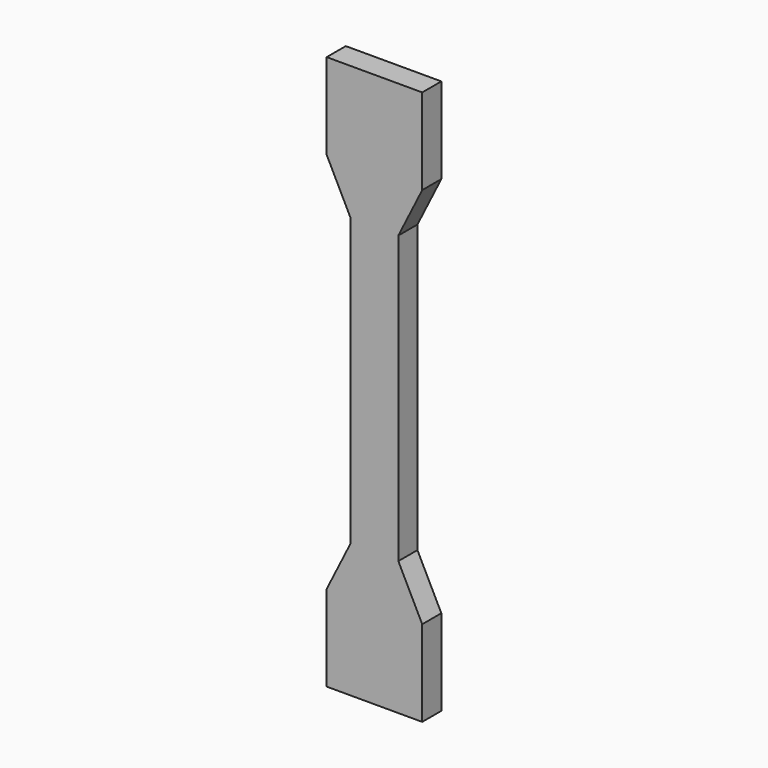
from build123d import *

# Parameters (mm, degrees)
F1_DEPTH = 2.5


with BuildPart() as f1:
    # F0 (on Front) → F1 (new body, symmetric)
    with BuildSketch(Plane.XZ):
        Polygon((10, 58), (0, 58), (-10, 58), (-10, 40), (-5, 30), (-5, 0), (-5, -30), (-10, -40), (-10, -58), (0, -58), (10, -58), (10, -40), (5, -30), (5, 0), (5, 30), (10, 40), align=None)
    extrude(amount=F1_DEPTH, both=True)


solid = f1.part
